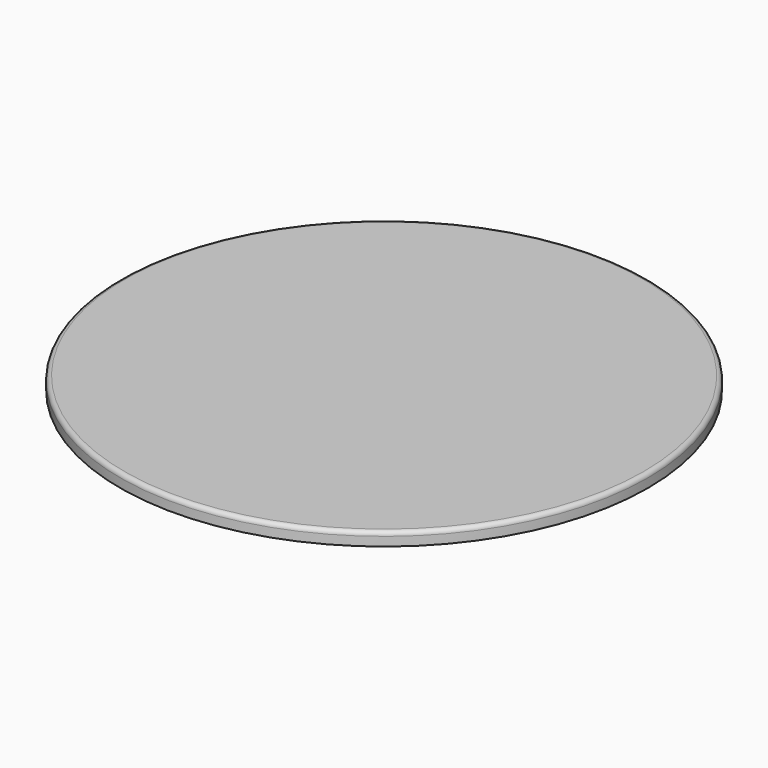
from build123d import *

# Parameters (mm, degrees)
F0_R     = 500
F1_DEPTH = 25
F2_R     = 8
F4_D     = 5
F4_DEPTH = 6
F4_TIP   = 1.5021515476


with BuildPart() as f1:
    # F0 (on Top) → F1 (new body)
    with BuildSketch(Plane.XY):
        Circle(F0_R)
    extrude(amount=-F1_DEPTH)

    # F2
    f2_edges = [f1.edges().sort_by_distance(p)[0] for p in [
        (-500, 0, 0),
    ]]
    fillet(f2_edges, radius=F2_R)

    # F4
    with Locations(Plane(origin=(0, 0, -25), x_dir=(1, 0, 0), z_dir=(0, 0, -1))):
        with Locations((-125, 92.5), (0, -92.5), (125, -92.5), (125, 92.5), (-125, -92.5), (0, 92.5)):
            Hole(F4_D / 2, depth=F4_DEPTH)
            with Locations((0, 0, -(F4_DEPTH + F4_TIP / 2))):  # 118° drill point
                Cone(0, F4_D / 2, F4_TIP, mode=Mode.SUBTRACT)


solid = f1.part
